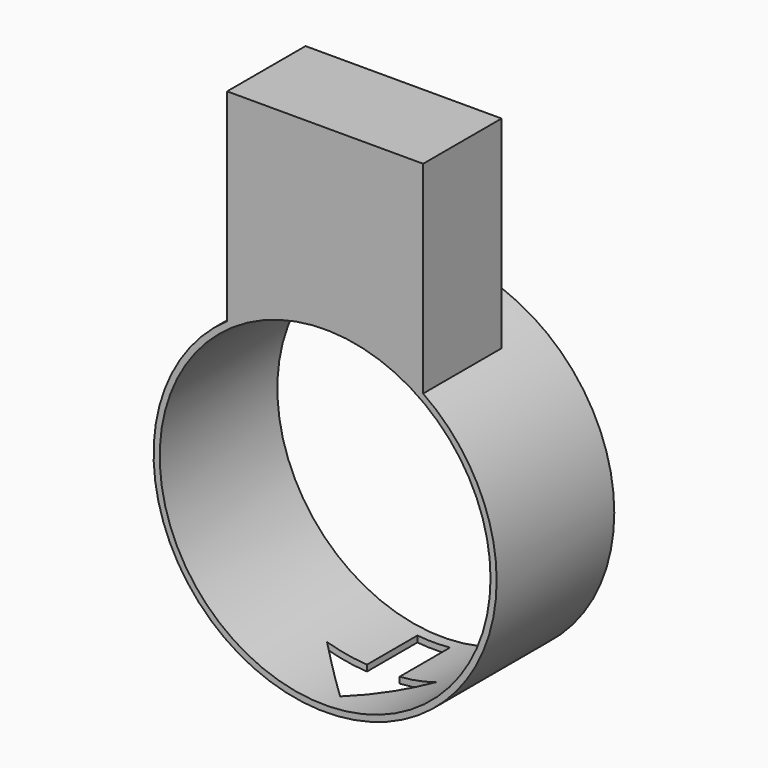
from build123d import *

# Parameters (mm, degrees)
F0_R     = 88.9
F1_DEPTH = 76.2
F2_W     = 101.6
F2_H     = 50.8
F3_DEPTH = 177.8
F5_DEPTH = 304.8
F6_R     = 85.725
F7_DEPTH = 76.201


with BuildPart() as f1:
    # F0 (on Front) → F1 (new body)
    with BuildSketch(Plane.XZ):
        Circle(F0_R)
    extrude(amount=F1_DEPTH)

    # F2 (on Top) → F3 (join)
    with BuildSketch(Plane.XY):
        with Locations((0, -50.8)):
            Rectangle(F2_W, F2_H)
    extrude(amount=F3_DEPTH)

    # F4 (on Top) → F5 (cut)
    with BuildSketch(Plane.XY):
        Polygon((8.465788, -5.836729), (0, -5.836729), (-8.465788, -5.836729), (-8.465788, -38.511038), (-28.219294, -39.673008), (0, -66.438295), (28.219294, -39.673008), (8.465788, -38.511038), align=None)
    extrude(amount=-F5_DEPTH, mode=Mode.SUBTRACT)

    # F6 (on face) → F7 (cut, through all)
    with BuildSketch(Plane.XZ.offset(76.2)):
        Circle(F6_R)
    extrude(amount=-F7_DEPTH, mode=Mode.SUBTRACT)


solid = f1.part
